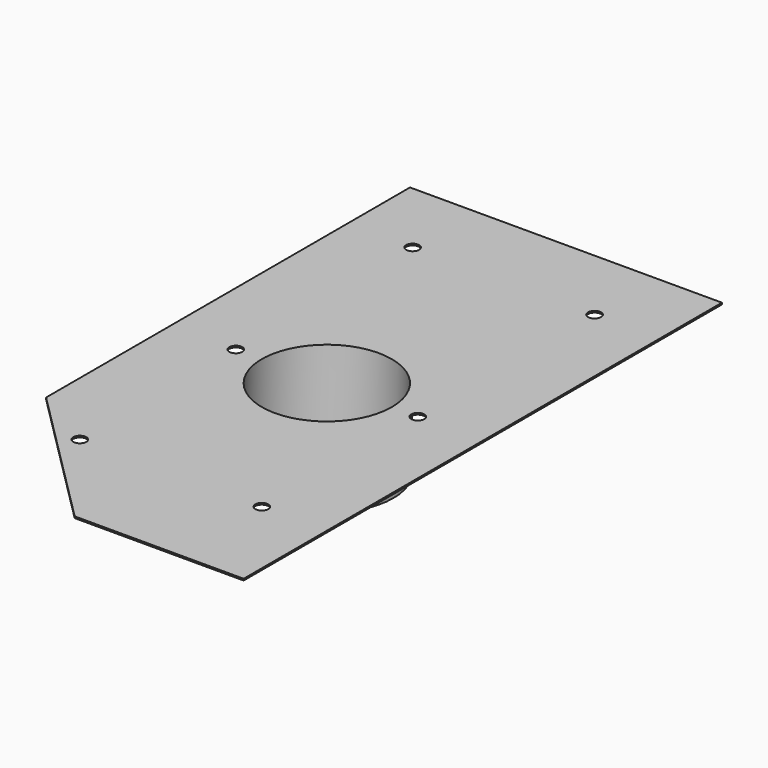
from build123d import *

# Parameters (mm, degrees)
F0_R     = 63.5
F1_DEPTH = 1.5875
F2_R     = 65.0875
F2_R_2   = 63.5
F3_DEPTH = 76.2


with BuildPart() as f1:
    # F0 (on Top) → F1 (new body)
    with BuildSketch(Plane.XY):
        with BuildLine():
            Line((152.4, 215.9), (152.4, 292.1))
            Line((152.4, 292.1), (88.9, 292.1))
            Line((88.9, 292.1), (88.9, 222.25))
            ThreePointArc((88.9, 222.25), (93.390128, 220.390128), (95.25, 215.9))
            Line((95.25, 215.9), (152.4, 215.9))
        make_face()
        with BuildLine():
            Line((88.9, 222.25), (88.9, 292.1))
            Line((88.9, 292.1), (-88.9, 292.1))
            Line((-88.9, 292.1), (-88.9, 222.25))
            ThreePointArc((-88.9, 222.25), (-84.409872, 220.390128), (-82.55, 215.9))
            ThreePointArc((-82.55, 215.9), (-84.409872, 211.409872), (-88.9, 209.55))
            Line((-88.9, 209.55), (-88.9, 6.35))
            ThreePointArc((-88.9, 6.35), (-84.409872, 4.490128), (-82.55, 0))
            ThreePointArc((-82.55, 0), (-84.409872, -4.490128), (-88.9, -6.35))
            Line((-88.9, -6.35), (-88.9, -184.15))
            ThreePointArc((-88.9, -184.15), (-84.409872, -186.009872), (-82.55, -190.5))
            Line((-82.55, -190.5), (82.55, -190.5))
            ThreePointArc((82.55, -190.5), (84.409872, -186.009872), (88.9, -184.15))
            Line((88.9, -184.15), (88.9, -6.35))
            ThreePointArc((88.9, -6.35), (82.55, 0), (88.9, 6.35))
            Line((88.9, 6.35), (88.9, 209.55))
            ThreePointArc((88.9, 209.55), (84.409872, 211.409872), (82.55, 215.9))
            ThreePointArc((82.55, 215.9), (84.409872, 220.390128), (88.9, 222.25))
        make_face()
        Circle(F0_R, mode=Mode.SUBTRACT)
        with BuildLine():
            Line((152.4, -152.4), (152.4, 215.9))
            Line((152.4, 215.9), (95.25, 215.9))
            ThreePointArc((95.25, 215.9), (93.390128, 211.409872), (88.9, 209.55))
            Line((88.9, 209.55), (88.9, 6.35))
            ThreePointArc((88.9, 6.35), (93.390128, 4.490128), (95.25, 0))
            ThreePointArc((95.25, 0), (93.390128, -4.490128), (88.9, -6.35))
            Line((88.9, -6.35), (88.9, -184.15))
            ThreePointArc((88.9, -184.15), (93.390128, -186.009872), (95.25, -190.5))
            Line((95.25, -190.5), (152.4, -190.5))
            Line((152.4, -190.5), (152.4, -152.4))
        make_face()
        with BuildLine():
            Line((-88.9, 222.25), (-88.9, 292.1))
            Line((-88.9, 292.1), (-152.4, 292.1))
            Line((-152.4, 292.1), (-152.4, 215.9))
            Line((-152.4, 215.9), (-95.25, 215.9))
            ThreePointArc((-95.25, 215.9), (-93.390128, 220.390128), (-88.9, 222.25))
        make_face()
        with BuildLine():
            Line((152.4, -292.1), (152.4, -190.5))
            Line((152.4, -190.5), (95.25, -190.5))
            ThreePointArc((95.25, -190.5), (93.390128, -194.990128), (88.9, -196.85))
            Line((88.9, -196.85), (88.9, -292.1))
            Line((88.9, -292.1), (152.4, -292.1))
        make_face()
        with BuildLine():
            Line((-95.25, 215.9), (-152.4, 215.9))
            Line((-152.4, 215.9), (-152.4, -152.4))
            Line((-152.4, -152.4), (-114.3, -190.5))
            Line((-114.3, -190.5), (-95.25, -190.5))
            ThreePointArc((-95.25, -190.5), (-93.390128, -186.009872), (-88.9, -184.15))
            Line((-88.9, -184.15), (-88.9, -6.35))
            ThreePointArc((-88.9, -6.35), (-95.25, 0), (-88.9, 6.35))
            Line((-88.9, 6.35), (-88.9, 209.55))
            ThreePointArc((-88.9, 209.55), (-93.390128, 211.409872), (-95.25, 215.9))
        make_face()
        with BuildLine():
            Line((12.7, -292.1), (88.9, -292.1))
            Line((88.9, -292.1), (88.9, -196.85))
            ThreePointArc((88.9, -196.85), (84.409872, -194.990128), (82.55, -190.5))
            Line((82.55, -190.5), (-82.55, -190.5))
            ThreePointArc((-82.55, -190.5), (-84.409872, -194.990128), (-88.9, -196.85))
            Line((-88.9, -196.85), (-88.9, -215.9))
            Line((-88.9, -215.9), (-12.7, -292.1))
            Line((-12.7, -292.1), (12.7, -292.1))
        make_face()
        with BuildLine():
            Line((-95.25, -190.5), (-114.3, -190.5))
            Line((-114.3, -190.5), (-88.9, -215.9))
            Line((-88.9, -215.9), (-88.9, -196.85))
            ThreePointArc((-88.9, -196.85), (-93.390128, -194.990128), (-95.25, -190.5))
        make_face()
    extrude(amount=F1_DEPTH)

    # F2 (on face) → F3 (join)
    with BuildSketch(Plane(origin=(0, 0, 0), x_dir=(1, 0, 0), z_dir=(0, 0, -1))):
        Circle(F2_R)
        Circle(F2_R_2, mode=Mode.SUBTRACT)
    extrude(amount=F3_DEPTH)


solid = f1.part
